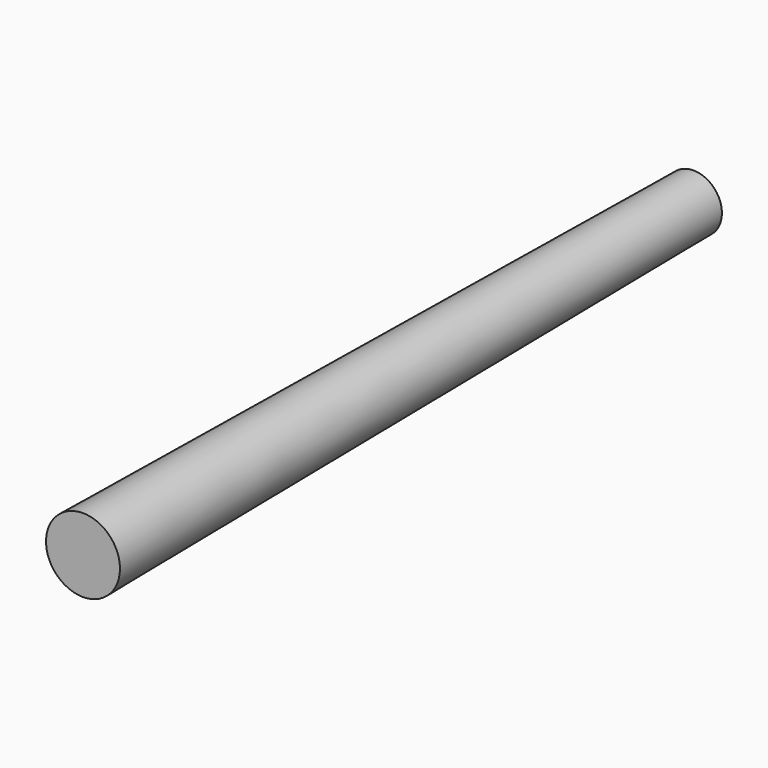
from build123d import *

# Parameters (mm, degrees)
F1_R = 2.81
F3_R = 2.155


with BuildPart() as f4:
    # F1 (on offset) → F4 section 0
    with BuildSketch(Plane.XZ.offset(29)):
        Circle(F1_R)
    # F3 (on offset) → F4 section 1
    with BuildSketch(Plane.XZ.offset(-29)):
        Circle(F3_R)
    loft()


solid = f4.part
